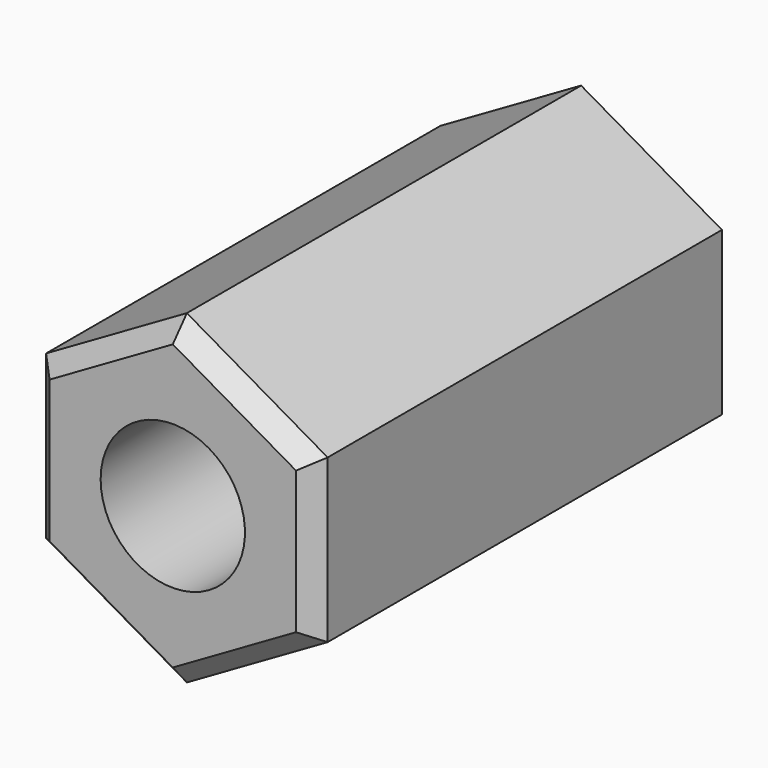
from build123d import *

# Parameters (mm, degrees)
F1_DEPTH = 15
F2_D     = 4.1
F3_SIZE  = 0.5


with BuildPart() as f1:
    # F0 (on Front) → F1 (new body)
    with BuildSketch(Plane.XZ):
        Polygon((4, -2.3094010768), (4, 2.3094010768), (0, 4.6188021535), (-4, 2.3094010768), (-4, -2.3094010768), (0, -4.6188021535), align=None)
    extrude(amount=F1_DEPTH)

    # F2 (through all)
    with Locations(Plane(origin=(0, 0, 0), x_dir=(1, 0, 0), z_dir=(0, 1, 0))):
        with Locations((0, 0)):
            Hole(F2_D / 2)

    # F3
    f3_edges = [f1.edges().sort_by_distance(p)[0] for p in [
        (-2, 0, -3.464102),
        (-4, 0, 0),
        (-2, 0, 3.464102),
        (2, 0, 3.464102),
        (4, 0, 0),
        (2, 0, -3.464102),
        (4, -15, 0),
        (2, -15, 3.464102),
        (-2, -15, 3.464102),
        (-4, -15, 0),
        (-2, -15, -3.464102),
        (2, -15, -3.464102),
    ]]
    chamfer(f3_edges, length=F3_SIZE)


solid = f1.part
